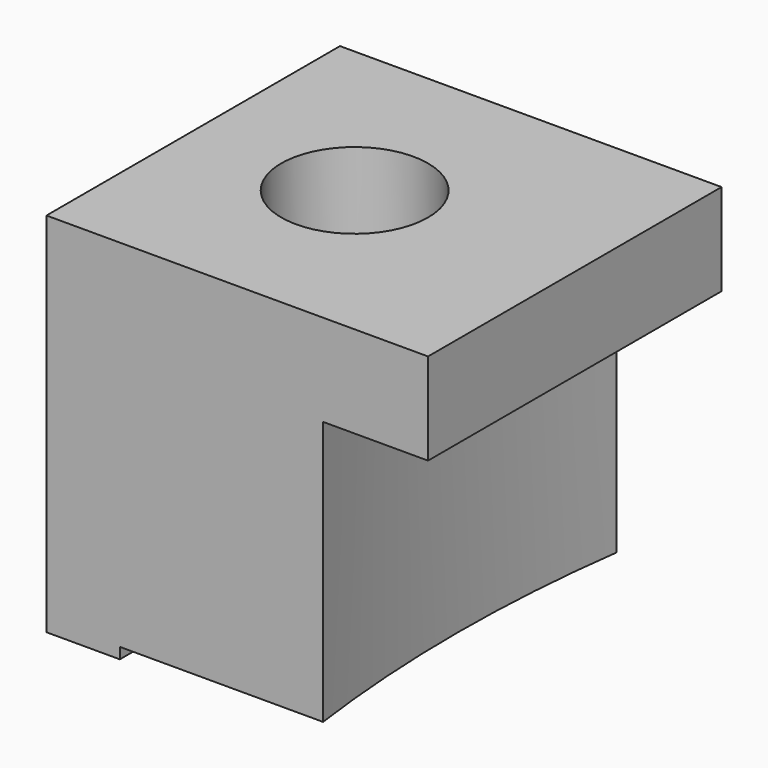
from build123d import *

# Parameters (mm, degrees)
F0_W     = 50
F0_H     = 50
F1_DEPTH = 52
F2_W     = 50
F2_H     = 1.5
F3_DEPTH = 42
F5_DEPTH = 36
F6_R     = 6.680851
F7_DEPTH = 65.6
F8_R     = 10
F9_DEPTH = 12


with BuildPart() as f1:
    # F0 (on Right) → F1 (new body)
    with BuildSketch(Plane.YZ):
        with Locations((-25, 25)):
            Rectangle(F0_W, F0_H)
    extrude(amount=F1_DEPTH)

    # F2 (on face) → F3 (cut)
    with BuildSketch(Plane.YZ.offset(52)):
        with Locations((-25, 0.75)):
            Rectangle(F2_W, F2_H)
    extrude(amount=-F3_DEPTH, mode=Mode.SUBTRACT)

    # F4 (on face) → F5 (cut)
    with BuildSketch(Plane(origin=(0, 0, 1.5), x_dir=(1, 0, 0), z_dir=(0, 0, -1))):
        with BuildLine():
            Line((68.967977, -80.566245), (77.262936, 141.644415))
            ThreePointArc((77.262936, 141.644415), (36.12911, 31.919758), (68.967977, -80.566245))
        make_face()
    extrude(amount=-F5_DEPTH, mode=Mode.SUBTRACT)

    # F6 (on face) → F7 (cut)
    with BuildSketch(Plane.XY.offset(50)):
        with Locations((22, -25)):
            Circle(F6_R)
    extrude(amount=-F7_DEPTH, mode=Mode.SUBTRACT)

    # F8 (on face) → F9 (cut)
    with BuildSketch(Plane.XY.offset(50)):
        with Locations((22, -25)):
            Circle(F8_R)
    extrude(amount=-F9_DEPTH, mode=Mode.SUBTRACT)


solid = f1.part
